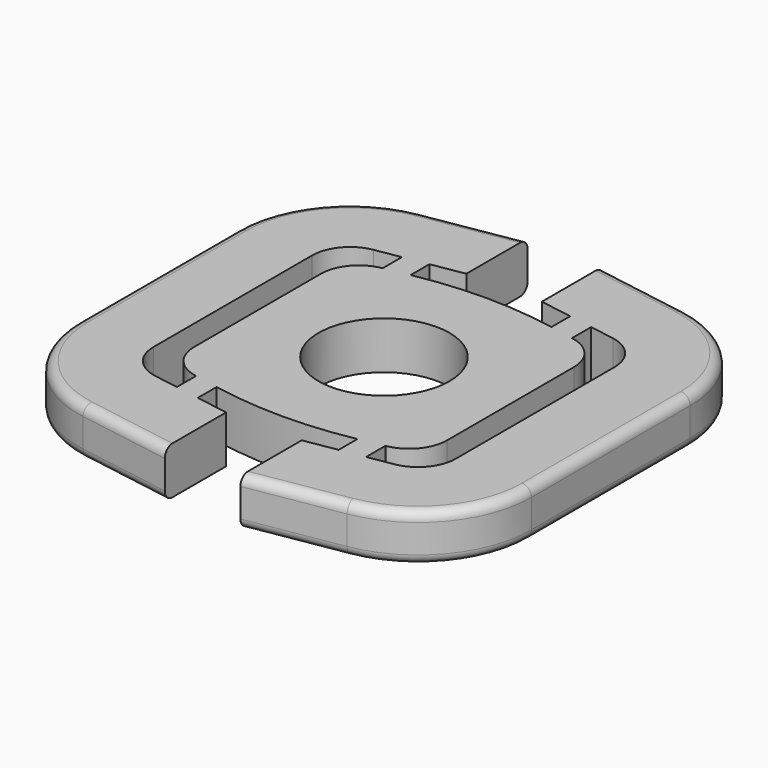
from build123d import *

# Parameters (mm, degrees)
F0_R     = 10.9982
F1_DEPTH = 7.9756
F3_DEPTH = 7.9756
F4_W     = 4.070462
F4_H     = 10.939364
F5_DEPTH = 7.9756
F6_R     = 1.5875


with BuildPart() as f1:
    # F0 (on Top) → F1 (new body)
    with BuildSketch(Plane.XY):
        with BuildLine():
            ThreePointArc((11.950254, 20.352071), (0, 21.486685), (-11.950254, 20.352071))
            Line((-11.950254, 20.352071), (-16.087743, 19.559259))
            ThreePointArc((-16.087743, 19.559259), (-19.787148, 17.368341), (-21.242717, 13.32272))
            Line((-21.242717, 13.32272), (-21.242717, 0))
            Line((-21.242717, 0), (-21.242717, -13.32272))
            ThreePointArc((-21.242717, -13.32272), (-19.787148, -17.368341), (-16.087743, -19.559259))
            Line((-16.087743, -19.559259), (-11.950254, -20.352071))
            ThreePointArc((-11.950254, -20.352071), (0, -21.486685), (11.950254, -20.352071))
            Line((11.950254, -20.352071), (16.087743, -19.559259))
            ThreePointArc((16.087743, -19.559259), (19.787148, -17.368341), (21.242717, -13.32272))
            Line((21.242717, -13.32272), (21.242717, 0))
            Line((21.242717, 0), (21.242717, 13.32272))
            ThreePointArc((21.242717, 13.32272), (19.787148, 17.368341), (16.087743, 19.559259))
            Line((16.087743, 19.559259), (11.950254, 20.352071))
        make_face()
        Circle(F0_R, mode=Mode.SUBTRACT)
    extrude(amount=F1_DEPTH)



with BuildPart() as f3:
    # F2 (on Top) → F3 (new body)
    with BuildSketch(Plane.XY):
        with BuildLine():
            ThreePointArc((-22.1818, 35.461367), (-33.585531, 28.984005), (-38.1, 16.670563))
            Line((-38.1, 16.670563), (-38.1, -16.670563))
            ThreePointArc((-38.1, -16.670563), (-33.585531, -28.984005), (-22.1818, -35.461367))
            Line((-22.1818, -35.461367), (-6.35, -38.1))
            Line((-6.35, -38.1), (-6.35, -25.224819))
            Line((-6.35, -25.224819), (-20.093933, -22.934164))
            ThreePointArc((-20.093933, -22.934164), (-23.895177, -20.775043), (-25.4, -16.670563))
            Line((-25.4, -16.670563), (-25.4, 16.670563))
            ThreePointArc((-25.4, 16.670563), (-23.895177, 20.775043), (-20.093933, 22.934164))
            Line((-20.093933, 22.934164), (-6.35, 25.224819))
            Line((-6.35, 25.224819), (-6.35, 38.1))
            Line((-6.35, 38.1), (-22.1818, 35.461367))
        make_face()
        with BuildLine():
            Line((38.1, -16.670563), (38.1, 16.670563))
            ThreePointArc((38.1, 16.670563), (33.585531, 28.984005), (22.1818, 35.461367))
            Line((22.1818, 35.461367), (6.35, 38.1))
            Line((6.35, 38.1), (6.35, 25.224819))
            Line((6.35, 25.224819), (20.093933, 22.934164))
            ThreePointArc((20.093933, 22.934164), (23.895177, 20.775043), (25.4, 16.670563))
            Line((25.4, 16.670563), (25.4, -16.670563))
            ThreePointArc((25.4, -16.670563), (23.895177, -20.775043), (20.093933, -22.934164))
            Line((20.093933, -22.934164), (6.35, -25.224819))
            Line((6.35, -25.224819), (6.35, -38.1))
            Line((6.35, -38.1), (22.1818, -35.461367))
            ThreePointArc((22.1818, -35.461367), (33.585531, -28.984005), (38.1, -16.670563))
        make_face()
    extrude(amount=F3_DEPTH)


with BuildPart() as f1_1:
    add(f1.part)

    add(f3.part)  # F5 merges F3
    # F4 (on Top) → F5 (join)
    with BuildSketch(Plane.XY):
        with Locations((-13.865008, 21.497123)):
            Rectangle(F4_W, F4_H)
        with Locations((13.865008, 21.497123)):
            Rectangle(F4_W, F4_H)
        with Locations((13.865008, -21.497123)):
            Rectangle(F4_W, F4_H)
        with Locations((-13.865008, -21.497123)):
            Rectangle(F4_W, F4_H)
    extrude(amount=F5_DEPTH)

    # F6
    f6_edges = [f1_1.edges().sort_by_distance(p)[0] for p in [
        (-14.2659, -36.780683, 7.9756),
        (14.2659, -36.780683, 7.9756),
        (14.2659, -36.780683, 0),
        (-14.2659, -36.780683, 0),
    ]]
    fillet(f6_edges, radius=F6_R)


solid = f1_1.part
